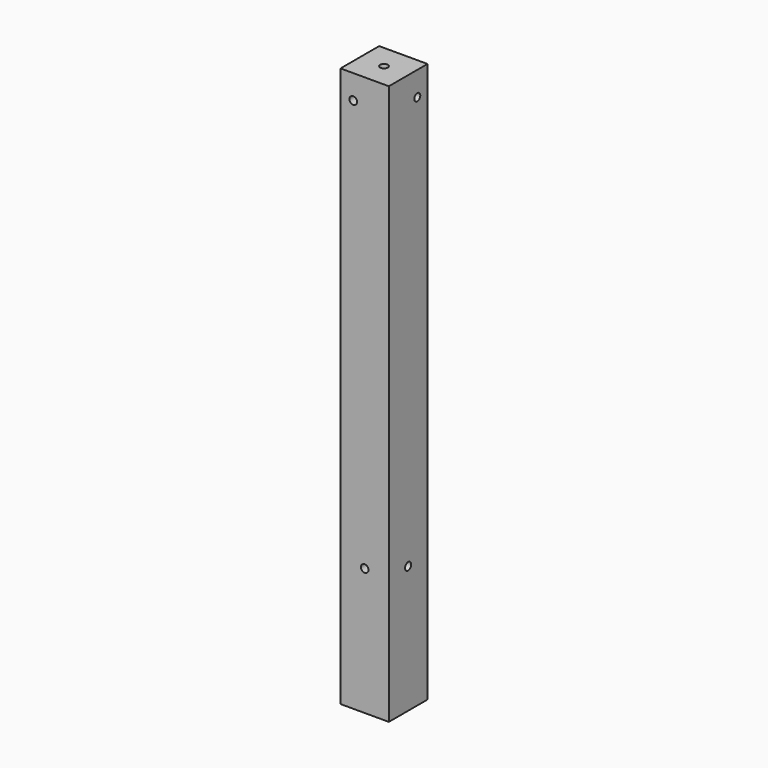
from build123d import *

# Parameters (mm, degrees)
F0_W      = 38
F0_H      = 38
F1_DEPTH  = 440
F2_R      = 3
F3_DEPTH  = 12
F4_R      = 2.900994
F5_DEPTH  = 12
F6_R      = 3
F7_DEPTH  = 12
F8_R      = 3
F9_DEPTH  = 12
F10_R     = 3
F11_DEPTH = 12
F12_DEPTH = 12


with BuildPart() as f1:
    # F0 (on Top) → F1 (new body)
    with BuildSketch(Plane.XY):
        with Locations((19, 19)):
            Rectangle(F0_W, F0_H)
    extrude(amount=F1_DEPTH)

    # F2 (on face) → F3 (cut)
    with BuildSketch(Plane.XZ):
        with Locations((10, 421)):
            Circle(F2_R)
    extrude(amount=-F3_DEPTH, mode=Mode.SUBTRACT)

    # F4 (on face) → F5 (cut)
    with BuildSketch(Plane.YZ.offset(38)):
        with Locations((28, 421)):
            Circle(F4_R)
    extrude(amount=-F5_DEPTH, mode=Mode.SUBTRACT)

    # F6 (on face) → F7 (cut)
    with BuildSketch(Plane.XY.offset(440)):
        with Locations((19, 19)):
            Circle(F6_R)
    extrude(amount=-F7_DEPTH, mode=Mode.SUBTRACT)

    # F8 (on face) → F9 (cut)
    with BuildSketch(Plane.XZ):
        with Locations((19, 100)):
            Circle(F8_R)
    extrude(amount=-F9_DEPTH, mode=Mode.SUBTRACT)

    # F10 (on face) → F11 (cut)
    with BuildSketch(Plane.YZ.offset(38)):
        with Locations((19, 100)):
            Circle(F10_R)
    extrude(amount=-F11_DEPTH, mode=Mode.SUBTRACT)

    # F6 (on face) → F12 (cut)
    with BuildSketch(Plane.XY.offset(440)):
        with Locations((19, 19)):
            Circle(F6_R)
    extrude(amount=-F12_DEPTH, mode=Mode.SUBTRACT)


solid = f1.part
